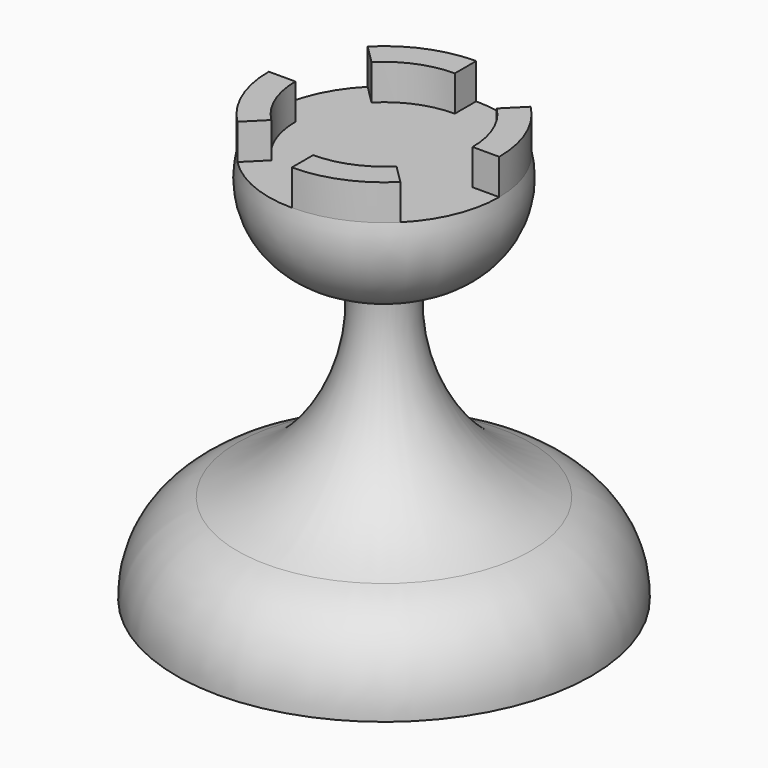
from build123d import *

# Parameters (mm, degrees)
F3_DEPTH = 3
F4_COUNT = 4


with BuildPart() as f1:
    # F0 (on Front) → F1 (revolve)
    with BuildSketch(Plane.XZ):
        with BuildLine():
            Line((0, 0), (17.544800512, 0))
            ThreePointArc((17.544800512, 0), (16.2109713715, 4.645936537), (12.3982300492, 7.6169347011))
            ThreePointArc((12.3982300492, 7.6169347011), (4.6485337942, 14.3337127504), (2.7025218587, 24.4027711451))
            ThreePointArc((2.7025218587, 24.4027711451), (8.3969973951, 26.9797232293), (9.7401189229, 33.084128052))
            Line((9.7401189229, 33.084128052), (0, 33.084128052))
            Line((0, 33.084128052), (0, 0))
        make_face()
    revolve(axis=Axis((0, 0, 16.542064026), (0, 0, 1)))

    # F2 (on face) → F3 (join)
    with BuildSketch(Plane.XY.offset(33.084128052)):
        with BuildLine():
            Line((0, 7.4865753758), (0, 9.7401189229))
            ThreePointArc((0, 9.7401189229), (-3.7275, 8.9986476974), (-6.8874845487, 6.8871237265))
            Line((-6.8874845487, 6.8871237265), (-5.2939468842, 5.2936695443))
            ThreePointArc((-5.2939468842, 5.2936695443), (-2.8650789517, 6.9166562339), (0, 7.4865753758))
        make_face()
    extrude(amount=F3_DEPTH)

    # F4: F1 ×4 about axis
    f4_axis = Axis((0, 0, 33.084128052), (0, 0, 1))


with BuildPart() as f1_1:
    add(f1.part)
    for i in range(1, F4_COUNT):
        add(f1.part.rotate(f4_axis, i * 360 / F4_COUNT))


solid = f1_1.part
